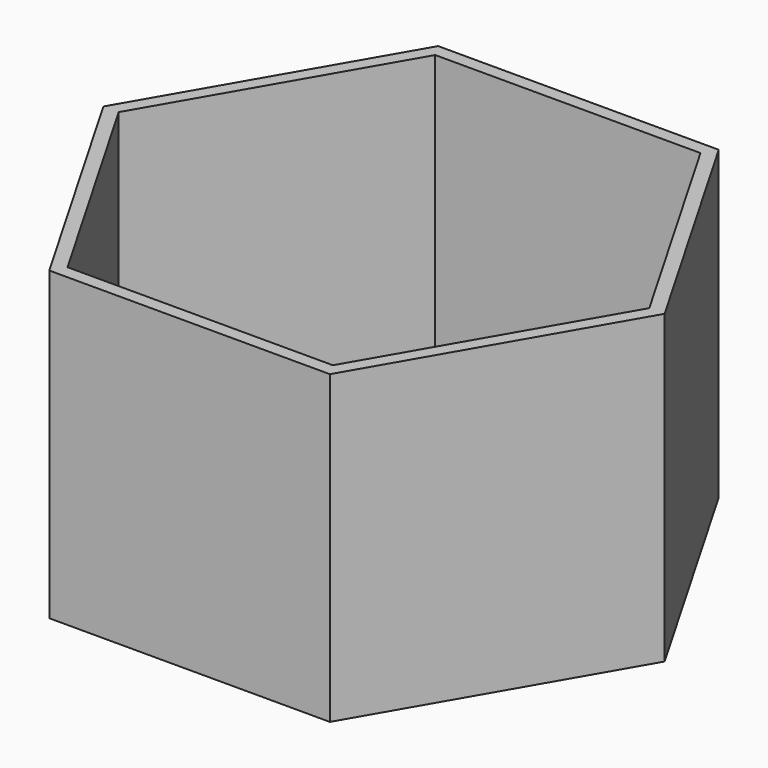
from build123d import *

# Parameters (mm, degrees)
F1_DEPTH = 60
F2_DEPTH = 3


with BuildPart() as f1:
    # F0 (on Top) → F1 (new body)
    with BuildSketch(Plane.XY):
        Polygon((27.5, -47.631397), (55, 0), (27.5, 47.631397), (-27.5, 47.631397), (-55, 0), (-27.5, -47.631397), align=None)
        Polygon((26, 45.033321), (52, 0), (26, -45.033321), (-26, -45.033321), (-52, 0), (-26, 45.033321), align=None, mode=Mode.SUBTRACT)
    extrude(amount=F1_DEPTH)

    # F0 (on Top) → F2 (join)
    with BuildSketch(Plane.XY):
        Polygon((26, -45.033321), (52, 0), (26, 45.033321), (-26, 45.033321), (-52, 0), (-26, -45.033321), align=None)
    extrude(amount=F2_DEPTH)


solid = f1.part
